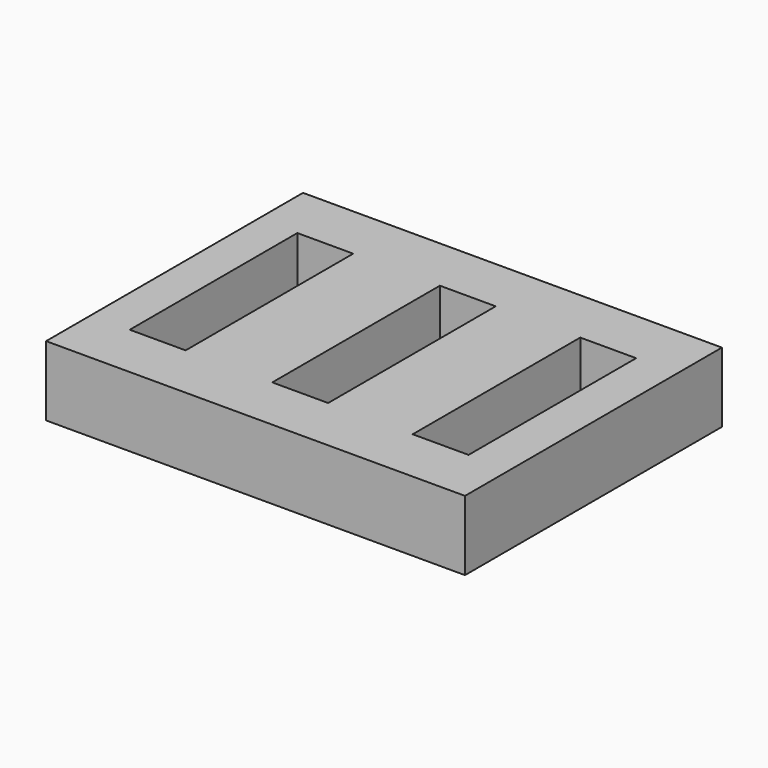
from build123d import *

# Parameters (mm, degrees)
F0_W     = 76.2
F0_H     = 58.42
F1_DEPTH = 12.7
F2_W     = 10.16
F2_H     = 38.1
F3_DEPTH = 12.701


with BuildPart() as f1:
    # F0 (on Top) → F1 (new body)
    with BuildSketch(Plane.XY):
        Rectangle(F0_W, F0_H)
    extrude(amount=F1_DEPTH)

    # F2 (on face) → F3 (cut, through all)
    with BuildSketch(Plane.XY.offset(12.7)):
        Rectangle(F2_W, F2_H)
        with Locations((25.541262, 0)):
            Rectangle(F2_W, F2_H)
        with Locations((-25.92569, 0)):
            Rectangle(F2_W, F2_H)
    extrude(amount=-F3_DEPTH, mode=Mode.SUBTRACT)


solid = f1.part
